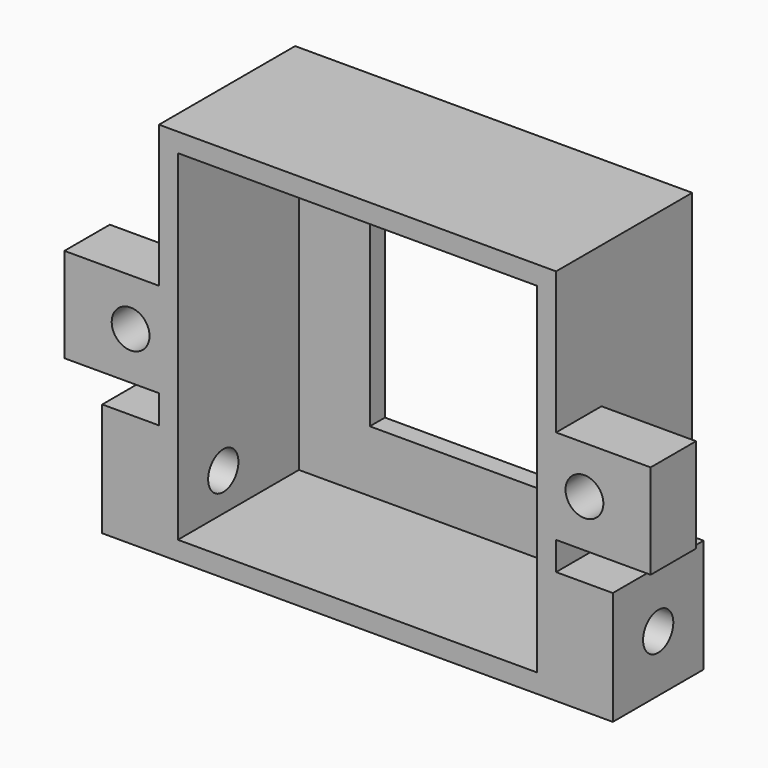
from build123d import *

# Parameters (mm, degrees)
F0_W          = 21
F0_H          = 20
F0_W_2        = 19
F0_H_2        = 18
F0_W_3        = 18
F0_H_3        = 17
F0_W_4        = 11.5
F0_H_4        = 11.5
F1_DEPTH      = 1
F2_W          = 21
F2_H          = 20
F2_W_2        = 19
F2_H_2        = 18
F3_DEPTH      = 7
F4_W          = 19
F4_H          = 18
F4_W_2        = 5
F4_H_2        = 5
F5_DEPTH      = 1
F5_DEPTH_BACK = 2
F7_D          = 2
F8_W          = 6
F8_H          = 6
F9_DEPTH      = 3
F10_W         = 6
F10_H         = 6
F11_DEPTH     = 3
F13_D         = 2


with BuildPart() as f1:
    # F0 (on Front) → F1 (new body)
    with BuildSketch(Plane.XZ):
        Rectangle(F0_W, F0_H)
        Rectangle(F0_W_2, F0_H_2, mode=Mode.SUBTRACT)
        Rectangle(F0_W_2, F0_H_2)
        Rectangle(F0_W_3, F0_H_3, mode=Mode.SUBTRACT)
        Rectangle(F0_W_3, F0_H_3)
        Rectangle(F0_W_4, F0_H_4, mode=Mode.SUBTRACT)
    extrude(amount=F1_DEPTH)

    # F2 (on face) → F3 (join)
    with BuildSketch(Plane.XZ.offset(1)):
        Rectangle(F2_W, F2_H)
        Rectangle(F2_W_2, F2_H_2, mode=Mode.SUBTRACT)
    extrude(amount=F3_DEPTH)

    # F4 (on face) → F5 (join, two sides)
    with BuildSketch(Plane.XZ.offset(8)) as f5_sk:
        Polygon((10.5, 2.5), (10.5, 10), (-10.5, 10), (-10.5, 2.5), (-10.5, -2.5), (-10.5, -10), (10.5, -10), (10.5, -2.5), align=None)
        Rectangle(F4_W, F4_H, mode=Mode.SUBTRACT)
        with Locations((13, 0)):
            Rectangle(F4_W_2, F4_H_2)
        with Locations((-13, 0)):
            Rectangle(F4_W_2, F4_H_2)
    extrude(amount=F5_DEPTH)
    extrude(f5_sk.sketch, amount=-F5_DEPTH_BACK)

    # F7 (through all)
    with Locations(Plane.XZ.offset(9)):
        with Locations((-12, 0), (12, 0)):
            Hole(F7_D / 2)

    # F8 (on face) → F9 (join)
    with BuildSketch(Plane(origin=(-10.5, 0, 0), x_dir=(0, -1, 0), z_dir=(-1, 0, 0))):
        with Locations((6, -7)):
            Rectangle(F8_W, F8_H)
    extrude(amount=F9_DEPTH)

    # F10 (on face) → F11 (join)
    with BuildSketch(Plane.YZ.offset(10.5)):
        with Locations((-6, -7)):
            Rectangle(F10_W, F10_H)
    extrude(amount=F11_DEPTH)

    # F13 (through all)
    with Locations(Plane(origin=(-13.5, 0, 0), x_dir=(0, -1, 0), z_dir=(-1, 0, 0))):
        with Locations((6, -7)):
            Hole(F13_D / 2)


solid = f1.part
